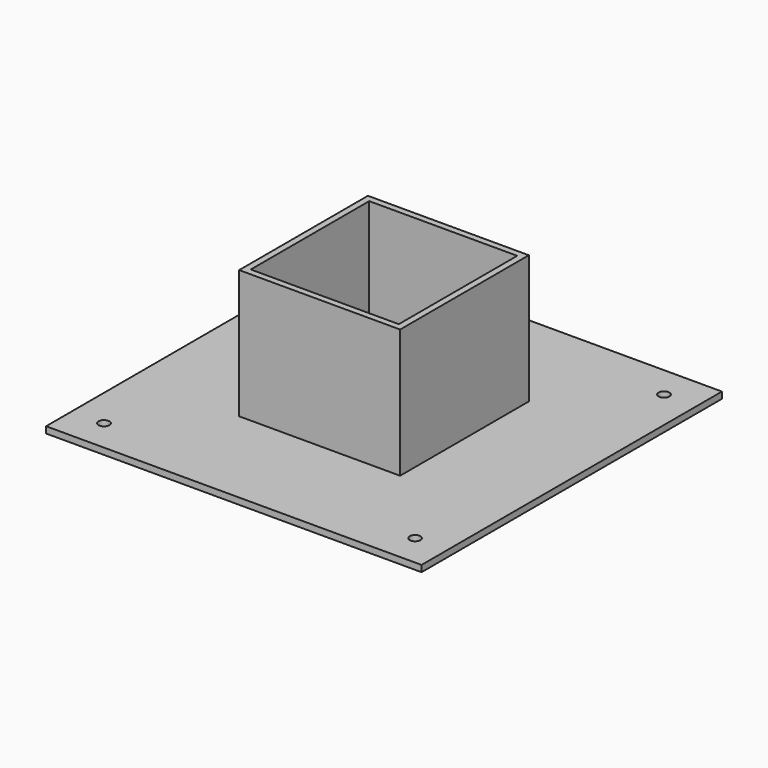
from build123d import *

# Parameters (mm, degrees)
SKETCH_W     = 175
SKETCH_H     = 175
PAD_DEPTH    = 3
SKETCH001_R  = 2.5
HOLE_DEPTH   = 3.001
SKETCH002_W  = 75
SKETCH002_H  = 75
PAD001_DEPTH = 60
SKETCH003_W  = 69
SKETCH003_H  = 69
POCKET_DEPTH = 63.001


with BuildPart() as part:
    # Sketch → Pad (new body)
    with BuildSketch(Plane.XY):
        Rectangle(SKETCH_W, SKETCH_H)
    extrude(amount=PAD_DEPTH)

    # Sketch001 (on Face6 of Pad) → Hole (cut, through all)
    with BuildSketch(Plane.XY.offset(3)):
        with Locations((-72.5, 72.5)):
            Circle(SKETCH001_R)
        with Locations((72.5, 72.5)):
            Circle(SKETCH001_R)
        with Locations((-72.5, -72.5)):
            Circle(SKETCH001_R)
        with Locations((72.5, -72.5)):
            Circle(SKETCH001_R)
    extrude(amount=-HOLE_DEPTH, mode=Mode.SUBTRACT)

    # Sketch002 (on Face5 of Hole) → Pad001 (join)
    with BuildSketch(Plane.XY.offset(3)):
        Rectangle(SKETCH002_W, SKETCH002_H)
    extrude(amount=PAD001_DEPTH)

    # Sketch003 (on Face15 of Pad001) → Pocket (cut, through all)
    with BuildSketch(Plane.XY.offset(63)):
        Rectangle(SKETCH003_W, SKETCH003_H)
    extrude(amount=-POCKET_DEPTH, mode=Mode.SUBTRACT)


solid = part.part
